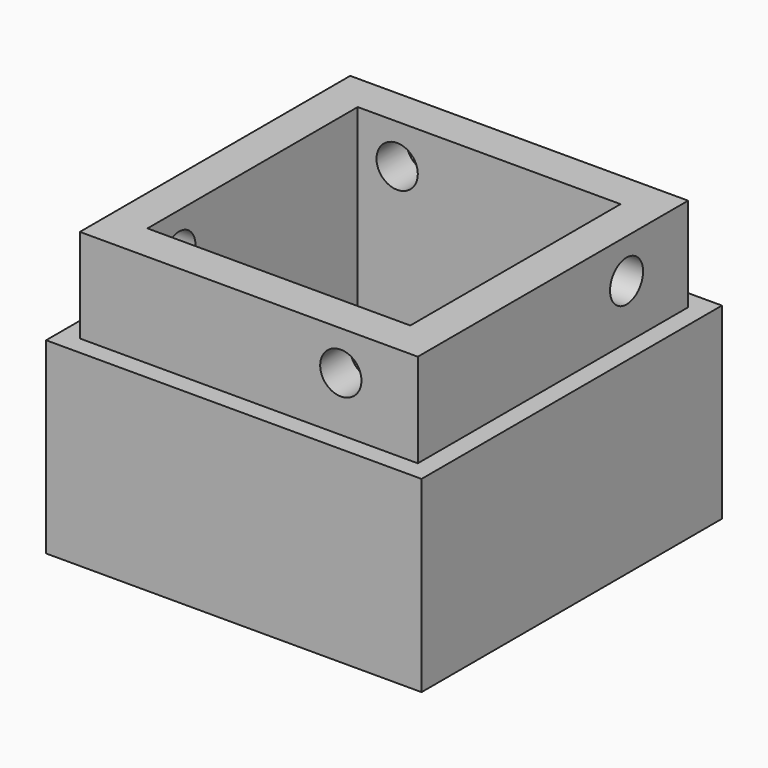
from build123d import *

# Parameters (mm, degrees)
F2_W      = 20
F2_H      = 20
F3_DEPTH  = 3
F4_W      = 20
F4_H      = 20
F4_W_2    = 14
F4_H_2    = 14
F5_DEPTH  = 7
F7_W      = 18
F7_H      = 18
F7_W_2    = 14
F7_H_2    = 14
F8_DEPTH  = 5
F9_R      = 1.1
F10_DEPTH = 2
F11_R     = 1.1
F12_DEPTH = 3
F13_R     = 1.1
F14_DEPTH = 3
F15_R     = 1.1
F16_DEPTH = 3


with BuildPart() as f3:
    # F2 (on Top) → F3 (new body)
    with BuildSketch(Plane.XY):
        with Locations((10, -10)):
            Rectangle(F2_W, F2_H)
    extrude(amount=F3_DEPTH)

    # F4 (on face) → F5 (join)
    with BuildSketch(Plane.XY.offset(3)):
        with Locations((10, -10)):
            Rectangle(F4_W, F4_H)
        with Locations((10, -10)):
            Rectangle(F4_W_2, F4_H_2, mode=Mode.SUBTRACT)
    extrude(amount=F5_DEPTH)

    # F7 (on face) → F8 (join)
    with BuildSketch(Plane.XY.offset(10)):
        with Locations((10, -10)):
            Rectangle(F7_W, F7_H)
        with Locations((10, -10)):
            Rectangle(F7_W_2, F7_H_2, mode=Mode.SUBTRACT)
    extrude(amount=F8_DEPTH)

    # F9 (on face) → F10 (cut)
    with BuildSketch(Plane(origin=(0, -17, 0), x_dir=(-1, 0, 0), z_dir=(0, 1, 0))):
        with Locations((-14.9, 12.9)):
            Circle(F9_R)
    extrude(amount=-F10_DEPTH, mode=Mode.SUBTRACT)

    # F11 (on face) → F12 (cut)
    with BuildSketch(Plane.YZ.offset(3)):
        with Locations((-14.9, 12.9)):
            Circle(F11_R)
    extrude(amount=-F12_DEPTH, mode=Mode.SUBTRACT)

    # F13 (on face) → F14 (cut)
    with BuildSketch(Plane.XZ.offset(3)):
        with Locations((5.1, 12.9)):
            Circle(F13_R)
    extrude(amount=-F14_DEPTH, mode=Mode.SUBTRACT)

    # F15 (on face) → F16 (cut)
    with BuildSketch(Plane(origin=(17, 0, 0), x_dir=(0, -1, 0), z_dir=(-1, 0, 0))):
        with Locations((5.1, 12.9)):
            Circle(F15_R)
    extrude(amount=-F16_DEPTH, mode=Mode.SUBTRACT)


solid = f3.part
